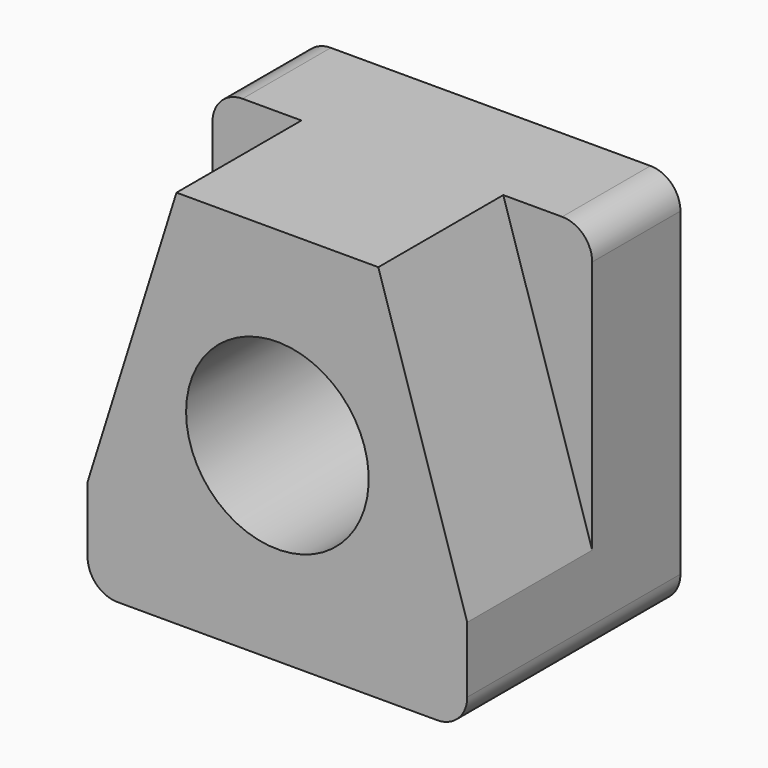
from build123d import *

# Parameters (mm, degrees)
F0_W     = 40.132
F0_H     = 40.132
F1_DEPTH = 11.6586
F3_DEPTH = 16.51
F4_R     = 9.652
F5_DEPTH = 30.48
F6_R     = 3.175
F7_R     = 3.175
F8_R     = 3.175


with BuildPart() as f1:
    # F0 (on Front) → F1 (new body)
    with BuildSketch(Plane.XZ):
        Rectangle(F0_W, F0_H)
    extrude(amount=F1_DEPTH)

    # F2 (on face) → F3 (join)
    with BuildSketch(Plane.XZ.offset(11.6586)):
        Polygon((-20.066, -9.918316), (-20.066, -20.066), (20.066, -20.066), (20.066, -9.918316), (10.668, 20.066), (-10.668, 20.066), align=None)
    extrude(amount=F3_DEPTH)

    # F4 (on face) → F5 (cut)
    with BuildSketch(Plane(origin=(0, 0, 0), x_dir=(-1, 0, 0), z_dir=(0, 1, 0))):
        Circle(F4_R)
    extrude(amount=-F5_DEPTH, mode=Mode.SUBTRACT)

    # F6
    f6_edges = [f1.edges().sort_by_distance(p)[0] for p in [
        (-20.066, -5.8293, 20.066),
    ]]
    fillet(f6_edges, radius=F6_R)

    # F7
    f7_edges = [f1.edges().sort_by_distance(p)[0] for p in [
        (-20.066, -14.0843, -20.066),
    ]]
    fillet(f7_edges, radius=F7_R)

    # F8
    f8_edges = [f1.edges().sort_by_distance(p)[0] for p in [
        (20.066, -5.8293, 20.066),
        (20.066, -14.0843, -20.066),
    ]]
    fillet(f8_edges, radius=F8_R)


solid = f1.part
